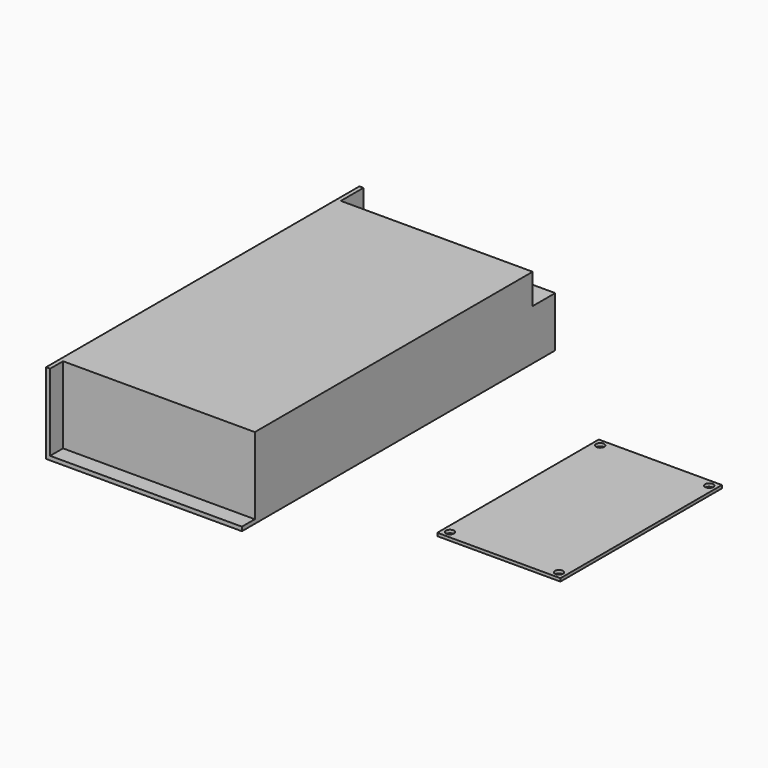
from build123d import *

# Parameters (mm, degrees)
F0_W     = 2
F0_H     = 14
F0_H_2   = 8
F1_DEPTH = 40
F0_W_2   = 95
F2_DEPTH = 2
F3_DEPTH = 25
F4_R     = 1.25
F5_DEPTH = 5
F0_W_3   = 61
F0_H_3   = 100
F0_R     = 2
F6_DEPTH = 1.5


with BuildPart() as f1:
    # F0 (on Top) → F1 (new body)
    with BuildSketch(Plane.XY):
        Polygon((9.892429, -86), (9.892429, 86), (-85.107571, 86), (-87.107571, 86), (-87.107571, -86), (-85.107571, -86), align=None)
        with Locations((-86.107571, 93)):
            Rectangle(F0_W, F0_H)
        with Locations((-86.107571, -90)):
            Rectangle(F0_W, F0_H_2)
    extrude(amount=F1_DEPTH)

    # F0 (on Top) → F2 (join)
    with BuildSketch(Plane.XY):
        with Locations((-37.607571, -90)):
            Rectangle(F0_W_2, F0_H_2)
    extrude(amount=F2_DEPTH)

    # F0 (on Top) → F3 (join)
    with BuildSketch(Plane.XY):
        with Locations((-37.607571, 93)):
            Rectangle(F0_W_2, F0_H)
    extrude(amount=F3_DEPTH)

    # F4 (on face) → F5 (cut)
    with BuildSketch(Plane(origin=(-87.107571, 0, 0), x_dir=(0, -1, 0), z_dir=(-1, 0, 0))):
        with Locations((74, 8)):
            Circle(F4_R)
        with Locations((74, 27)):
            Circle(F4_R)
        with Locations((-77, 20)):
            Circle(F4_R)
    extrude(amount=-F5_DEPTH, mode=Mode.SUBTRACT)


with BuildPart() as f6:
    # F0 (on Top) → F6 (new body)
    with BuildSketch(Plane.XY):
        with Locations((101.962365, 0)):
            Rectangle(F0_W_3, F0_H_3)
        with Locations((74.962365, -46.5)):
            Circle(F0_R, mode=Mode.SUBTRACT)
        with Locations((128.962365, -46.5)):
            Circle(F0_R, mode=Mode.SUBTRACT)
        with Locations((74.962365, 46.5)):
            Circle(F0_R, mode=Mode.SUBTRACT)
        with Locations((128.962365, 46.5)):
            Circle(F0_R, mode=Mode.SUBTRACT)
    extrude(amount=F6_DEPTH)


solid = Compound([f1.part, f6.part])
